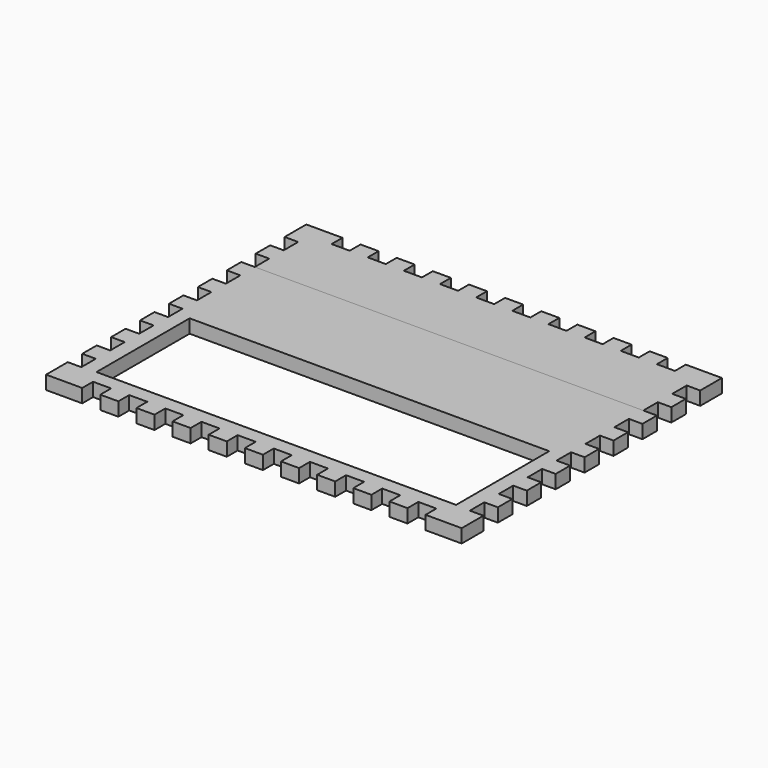
from build123d import *

# Parameters (mm, degrees)
F1_DEPTH = 9.525
F0_W     = 252.73
F0_H     = 81.788
F2_DEPTH = 9.525


with BuildPart() as f1:
    # F0 (on Top) → F1 (new body)
    with BuildSketch(Plane.XY):
        Polygon((25.4, 0), (0, 0), (0, -19.05), (9.525, -19.05), (9.525, -31.75), (0, -31.75), (0, -44.45), (9.525, -44.45), (9.525, -57.15), (282.575, -57.15), (282.575, -44.45), (292.1, -44.45), (292.1, -31.75), (282.575, -31.75), (282.575, -19.05), (292.1, -19.05), (292.1, 0), (266.7, 0), (266.7, -9.525), (254, -9.525), (254, 0), (241.3, 0), (241.3, -9.525), (228.6, -9.525), (228.6, 0), (215.9, 0), (215.9, -9.525), (203.2, -9.525), (203.2, 0), (190.5, 0), (190.5, -9.525), (177.8, -9.525), (177.8, 0), (165.1, 0), (165.1, -9.525), (152.4, -9.525), (152.4, 0), (139.7, 0), (139.7, -9.525), (127, -9.525), (127, 0), (114.3, 0), (114.3, -9.525), (101.6, -9.525), (101.6, 0), (88.9, 0), (88.9, -9.525), (76.2, -9.525), (76.2, 0), (63.5, 0), (63.5, -9.525), (50.8, -9.525), (50.8, 0), (38.1, 0), (38.1, -9.525), (25.4, -9.525), align=None)
    extrude(amount=F1_DEPTH)


with BuildPart() as f2:
    # F0 (on Top) → F2 (new body)
    with BuildSketch(Plane.XY):
        Polygon((282.575, -57.15), (9.525, -57.15), (0, -57.15), (0, -69.85), (9.525, -69.85), (9.525, -82.55), (0, -82.55), (0, -95.25), (9.525, -95.25), (9.525, -107.95), (0, -107.95), (0, -120.65), (9.525, -120.65), (9.525, -133.35), (0, -133.35), (0, -146.05), (9.525, -146.05), (9.525, -158.75), (0, -158.75), (0, -171.45), (9.525, -171.45), (9.525, -184.15), (0, -184.15), (0, -196.85), (9.525, -196.85), (9.525, -209.55), (0, -209.55), (0, -228.6), (25.4, -228.6), (25.4, -219.075), (38.1, -219.075), (38.1, -228.6), (50.8, -228.6), (50.8, -219.075), (63.5, -219.075), (63.5, -228.6), (76.2, -228.6), (76.2, -219.075), (88.9, -219.075), (88.9, -228.6), (101.6, -228.6), (101.6, -219.075), (114.3, -219.075), (114.3, -228.6), (127, -228.6), (127, -219.075), (139.7, -219.075), (139.7, -228.6), (152.4, -228.6), (152.4, -219.075), (165.1, -219.075), (165.1, -228.6), (177.8, -228.6), (177.8, -219.075), (190.5, -219.075), (190.5, -228.6), (203.2, -228.6), (203.2, -219.075), (215.9, -219.075), (215.9, -228.6), (228.6, -228.6), (228.6, -219.075), (241.3, -219.075), (241.3, -228.6), (254, -228.6), (254, -219.075), (266.7, -219.075), (266.7, -228.6), (292.1, -228.6), (292.1, -209.55), (282.575, -209.55), (282.575, -196.85), (292.1, -196.85), (292.1, -184.15), (282.575, -184.15), (282.575, -171.45), (292.1, -171.45), (292.1, -158.75), (282.575, -158.75), (282.575, -146.05), (292.1, -146.05), (292.1, -133.35), (282.575, -133.35), (282.575, -120.65), (292.1, -120.65), (292.1, -107.95), (282.575, -107.95), (282.575, -95.25), (292.1, -95.25), (292.1, -82.55), (282.575, -82.55), (282.575, -69.85), (292.1, -69.85), (292.1, -57.15), align=None)
        with Locations((146.05, -168.021)):
            Rectangle(F0_W, F0_H, mode=Mode.SUBTRACT)
    extrude(amount=F2_DEPTH)


solid = Compound([f1.part, f2.part])
